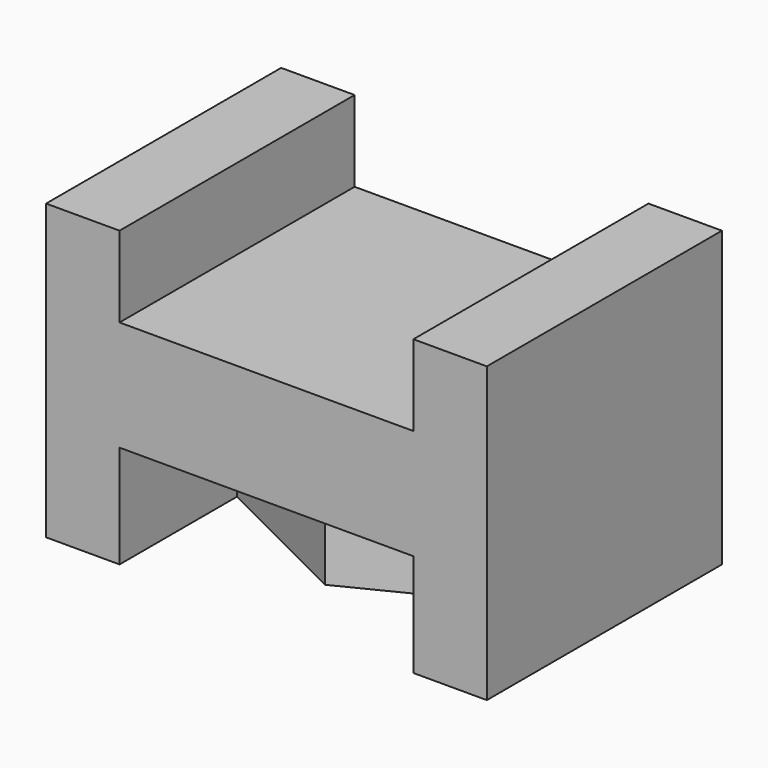
from build123d import *

# Parameters (mm, degrees)
F0_W     = 20
F0_H     = 10
F1_DEPTH = 10
F2_DEPTH = 40
F3_START = 14
F3_DEPTH = 15


with BuildPart() as f1:
    # F0 (on Top) → F1 (new body)
    with BuildSketch(Plane.XY):
        with Locations((20, 35)):
            Rectangle(F0_W, F0_H)
        with Locations((40, 35)):
            Rectangle(F0_W, F0_H)
        with Locations((40, 25)):
            Rectangle(F0_W, F0_H)
        with Locations((20, 25)):
            Rectangle(F0_W, F0_H)
        Polygon((10, 20), (30, 10), (30, 20), align=None)
        Polygon((30, 20), (30, 10), (50, 20), align=None)
    extrude(amount=F1_DEPTH)

    # F0 (on Top) → F2 (join)
    with BuildSketch(Plane.XY):
        Polygon((0, 40), (0, 0), (10, 0), (10, 10), (10, 20), (10, 30), (10, 40), align=None)
        Polygon((50, 10), (50, 0), (60, 0), (60, 40), (50, 40), (50, 30), (50, 20), align=None)
    extrude(amount=F2_DEPTH)

    # F0 (on Top) → F3 (join)
    with BuildSketch(Plane.XY.offset(F3_START)):
        with Locations((40, 35)):
            Rectangle(F0_W, F0_H)
        with Locations((20, 35)):
            Rectangle(F0_W, F0_H)
        with Locations((20, 25)):
            Rectangle(F0_W, F0_H)
        with Locations((40, 25)):
            Rectangle(F0_W, F0_H)
        Polygon((10, 20), (30, 10), (30, 20), align=None)
        Polygon((30, 20), (30, 10), (50, 20), align=None)
        with Locations((40, 5)):
            Rectangle(F0_W, F0_H)
        with Locations((20, 5)):
            Rectangle(F0_W, F0_H)
        Polygon((10, 20), (10, 10), (30, 10), align=None)
        Polygon((50, 20), (30, 10), (50, 10), align=None)
    extrude(amount=F3_DEPTH)


solid = f1.part
